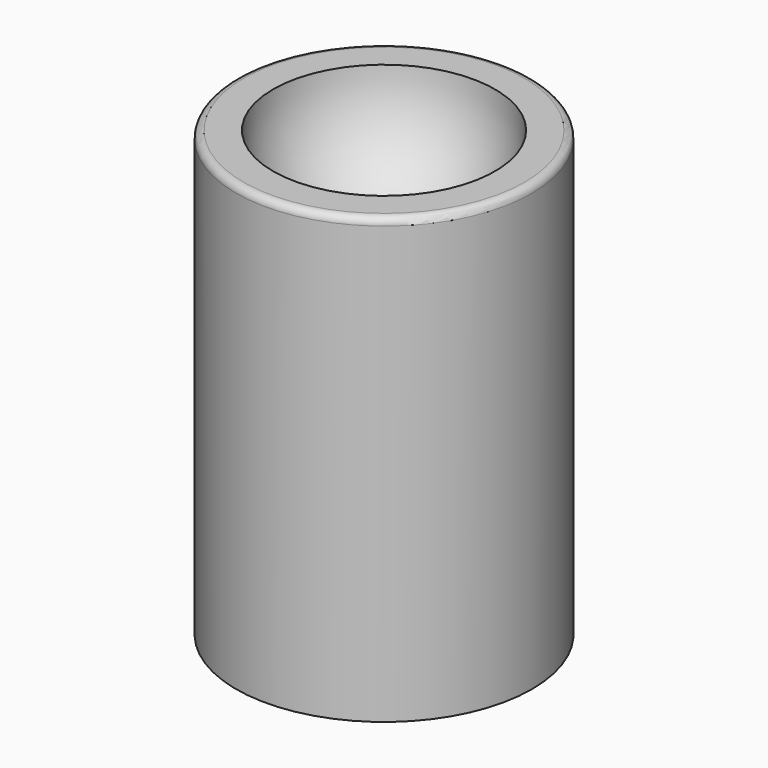
from build123d import *

# Parameters (mm, degrees)
F0_R     = 100
F1_DEPTH = 300
F4_R     = 5


with BuildPart() as f1:
    # F0 (on Top) → F1 (new body)
    with BuildSketch(Plane.XY):
        Circle(F0_R)
    extrude(amount=-F1_DEPTH)

    # F2 (on Front) → F3 (revolve, cut)
    with BuildSketch(Plane.XZ):
        with BuildLine():
            Line((0, -75), (0, 75))
            ThreePointArc((0, 75), (-75, 0), (0, -75))
        make_face()
    revolve(axis=Axis((0, 0, 0), (0, 0, -1)), mode=Mode.SUBTRACT)

    # F4
    f4_edges = [f1.edges().sort_by_distance(p)[0] for p in [
        (-100, 0, 0),
    ]]
    fillet(f4_edges, radius=F4_R)


solid = f1.part
